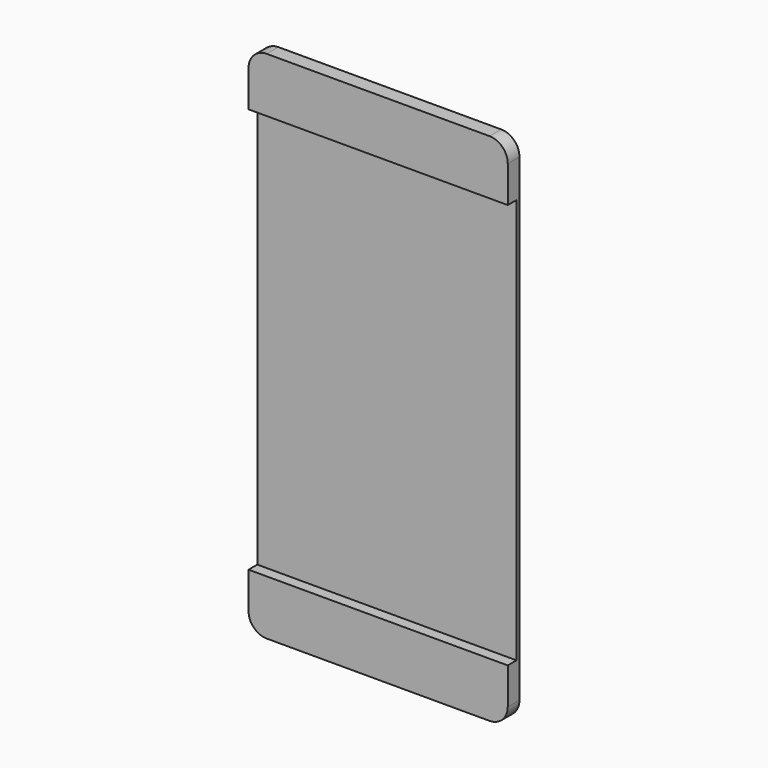
from build123d import *

# Parameters (mm, degrees)
F0_W     = 71
F0_H     = 15
F1_DEPTH = 4
F0_H_2   = 111
F2_DEPTH = 1
F3_R     = 5


with BuildPart() as f1:
    # F0 (on Front) → F1 (new body)
    with BuildSketch(Plane.XZ):
        with Locations((0, 63)):
            Rectangle(F0_W, F0_H)
        with Locations((0, -63)):
            Rectangle(F0_W, F0_H)
    extrude(amount=F1_DEPTH)

    # F0 (on Front) → F2 (join)
    with BuildSketch(Plane.XZ):
        Rectangle(F0_W, F0_H_2)
    extrude(amount=F2_DEPTH)

    # F3
    f3_edges = [f1.edges().sort_by_distance(p)[0] for p in [
        (-35.5, -2, 70.5),
        (35.5, -2, 70.5),
        (35.5, -2, -70.5),
        (-35.5, -2, -70.5),
    ]]
    fillet(f3_edges, radius=F3_R)


solid = f1.part
